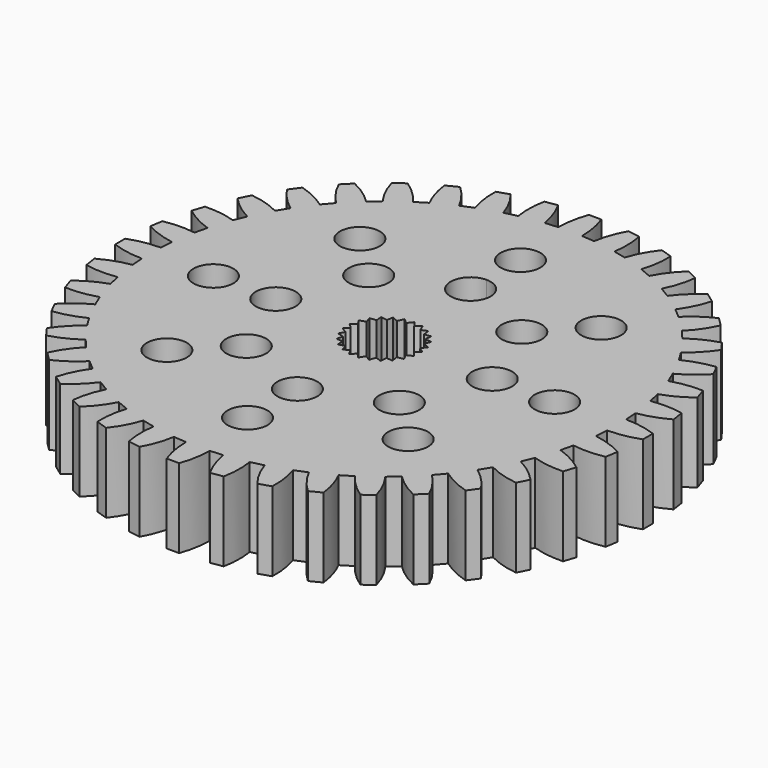
from build123d import *

# Parameters (mm, degrees)
F0_R     = 1.6
F1_DEPTH = 6.35


with BuildPart() as f1:
    # F0 (on Top) → F1 (new body)
    with BuildSketch(Plane.XY):
        with BuildLine():
            Line((0.5, 21.150821), (-0.5, 21.150821))
            ThreePointArc((-0.5, 21.150821), (-0.836603, 19.92091), (-0.95, 18.650821))
            Line((-0.95, 18.650821), (-1.979327, 18.569811))
            ThreePointArc((-1.979327, 18.569811), (-2.290014, 19.806524), (-2.814873, 20.968637))
            Line((-2.814873, 20.968637), (-3.802562, 20.812202))
            ThreePointArc((-3.802562, 20.812202), (-3.94262, 19.544777), (-3.855935, 18.272586))
            Line((-3.855935, 18.272586), (-4.859917, 18.031551))
            ThreePointArc((-4.859917, 18.031551), (-5.360243, 19.204436), (-6.060435, 20.270135))
            Line((-6.060435, 20.270135), (-7.011491, 19.961118))
            ThreePointArc((-7.011491, 19.961118), (-6.951557, 18.687386), (-6.666924, 17.444419))
            Line((-6.666924, 17.444419), (-7.620839, 17.049294))
            ThreePointArc((-7.620839, 17.049294), (-8.298485, 18.12947), (-9.156769, 19.072515))
            Line((-9.156769, 19.072515), (-10.047775, 18.618524))
            ThreePointArc((-10.047775, 18.618524), (-9.789323, 17.369851), (-9.313752, 16.186712))
            Line((-9.313752, 16.186712), (-10.194111, 15.647227))
            ThreePointArc((-10.194111, 15.647227), (-11.032391, 16.608097), (-12.027632, 17.405266))
            Line((-12.027632, 17.405266), (-12.836649, 16.817481))
            ThreePointArc((-12.836649, 16.817481), (-12.386043, 15.624611), (-11.731244, 14.530435))
            Line((-11.731244, 14.530435), (-12.516371, 13.859873))
            ThreePointArc((-12.516371, 13.859873), (-13.494642, 14.677778), (-14.602336, 15.309442))
            Line((-14.602336, 15.309442), (-15.309442, 14.602336))
            ThreePointArc((-15.309442, 14.602336), (-14.677778, 13.494642), (-13.859873, 12.516371))
            Line((-13.859873, 12.516371), (-14.530435, 11.731244))
            ThreePointArc((-14.530435, 11.731244), (-15.624611, 12.386043), (-16.817481, 12.836649))
            Line((-16.817481, 12.836649), (-17.405266, 12.027632))
            ThreePointArc((-17.405266, 12.027632), (-16.608097, 11.032391), (-15.647227, 10.194111))
            Line((-15.647227, 10.194111), (-16.186712, 9.313752))
            ThreePointArc((-16.186712, 9.313752), (-17.369851, 9.789323), (-18.618524, 10.047775))
            Line((-18.618524, 10.047775), (-19.072515, 9.156769))
            ThreePointArc((-19.072515, 9.156769), (-18.12947, 8.298485), (-17.049294, 7.620839))
            Line((-17.049294, 7.620839), (-17.444419, 6.666924))
            ThreePointArc((-17.444419, 6.666924), (-18.687386, 6.951557), (-19.961118, 7.011491))
            Line((-19.961118, 7.011491), (-20.270135, 6.060435))
            ThreePointArc((-20.270135, 6.060435), (-19.204436, 5.360243), (-18.031551, 4.859917))
            Line((-18.031551, 4.859917), (-18.272586, 3.855935))
            ThreePointArc((-18.272586, 3.855935), (-19.544777, 3.94262), (-20.812202, 3.802562))
            Line((-20.812202, 3.802562), (-20.968637, 2.814873))
            ThreePointArc((-20.968637, 2.814873), (-19.806524, 2.290014), (-18.569811, 1.979327))
            Line((-18.569811, 1.979327), (-18.650821, 0.95))
            ThreePointArc((-18.650821, 0.95), (-19.92091, 0.836603), (-21.150821, 0.5))
            Line((-21.150821, 0.5), (-21.150821, -0.5))
            ThreePointArc((-21.150821, -0.5), (-19.92091, -0.836603), (-18.650821, -0.95))
            Line((-18.650821, -0.95), (-18.569811, -1.979327))
            ThreePointArc((-18.569811, -1.979327), (-19.806524, -2.290014), (-20.968637, -2.814873))
            Line((-20.968637, -2.814873), (-20.812202, -3.802562))
            ThreePointArc((-20.812202, -3.802562), (-19.544777, -3.94262), (-18.272586, -3.855935))
            Line((-18.272586, -3.855935), (-18.031551, -4.859917))
            ThreePointArc((-18.031551, -4.859917), (-19.204436, -5.360243), (-20.270135, -6.060435))
            Line((-20.270135, -6.060435), (-19.961118, -7.011491))
            ThreePointArc((-19.961118, -7.011491), (-18.687386, -6.951557), (-17.444419, -6.666924))
            Line((-17.444419, -6.666924), (-17.049294, -7.620839))
            ThreePointArc((-17.049294, -7.620839), (-18.12947, -8.298485), (-19.072515, -9.156769))
            Line((-19.072515, -9.156769), (-18.618524, -10.047775))
            ThreePointArc((-18.618524, -10.047775), (-17.369851, -9.789323), (-16.186712, -9.313752))
            Line((-16.186712, -9.313752), (-15.647227, -10.194111))
            ThreePointArc((-15.647227, -10.194111), (-16.608097, -11.032391), (-17.405266, -12.027632))
            Line((-17.405266, -12.027632), (-16.817481, -12.836649))
            ThreePointArc((-16.817481, -12.836649), (-15.624611, -12.386043), (-14.530435, -11.731244))
            Line((-14.530435, -11.731244), (-13.859873, -12.516371))
            ThreePointArc((-13.859873, -12.516371), (-14.677778, -13.494642), (-15.309442, -14.602336))
            Line((-15.309442, -14.602336), (-14.602336, -15.309442))
            ThreePointArc((-14.602336, -15.309442), (-13.494642, -14.677778), (-12.516371, -13.859873))
            Line((-12.516371, -13.859873), (-11.731244, -14.530435))
            ThreePointArc((-11.731244, -14.530435), (-12.386043, -15.624611), (-12.836649, -16.817481))
            Line((-12.836649, -16.817481), (-12.027632, -17.405266))
            ThreePointArc((-12.027632, -17.405266), (-11.032391, -16.608097), (-10.194111, -15.647227))
            Line((-10.194111, -15.647227), (-9.313752, -16.186712))
            ThreePointArc((-9.313752, -16.186712), (-9.789323, -17.369851), (-10.047775, -18.618524))
            Line((-10.047775, -18.618524), (-9.156769, -19.072515))
            ThreePointArc((-9.156769, -19.072515), (-8.298485, -18.12947), (-7.620839, -17.049294))
            Line((-7.620839, -17.049294), (-6.666924, -17.444419))
            ThreePointArc((-6.666924, -17.444419), (-6.951557, -18.687386), (-7.011491, -19.961118))
            Line((-7.011491, -19.961118), (-6.060435, -20.270135))
            ThreePointArc((-6.060435, -20.270135), (-5.360243, -19.204436), (-4.859917, -18.031551))
            Line((-4.859917, -18.031551), (-3.855935, -18.272586))
            ThreePointArc((-3.855935, -18.272586), (-3.94262, -19.544777), (-3.802562, -20.812202))
            Line((-3.802562, -20.812202), (-2.814873, -20.968637))
            ThreePointArc((-2.814873, -20.968637), (-2.290014, -19.806524), (-1.979327, -18.569811))
            Line((-1.979327, -18.569811), (-0.95, -18.650821))
            ThreePointArc((-0.95, -18.650821), (-0.836603, -19.92091), (-0.5, -21.150821))
            Line((-0.5, -21.150821), (0.5, -21.150821))
            ThreePointArc((0.5, -21.150821), (0.836603, -19.92091), (0.95, -18.650821))
            Line((0.95, -18.650821), (1.979327, -18.569811))
            ThreePointArc((1.979327, -18.569811), (2.290014, -19.806524), (2.814873, -20.968637))
            Line((2.814873, -20.968637), (3.802562, -20.812202))
            ThreePointArc((3.802562, -20.812202), (3.94262, -19.544777), (3.855935, -18.272586))
            Line((3.855935, -18.272586), (4.859917, -18.031551))
            ThreePointArc((4.859917, -18.031551), (5.360243, -19.204436), (6.060435, -20.270135))
            Line((6.060435, -20.270135), (7.011491, -19.961118))
            ThreePointArc((7.011491, -19.961118), (6.951557, -18.687386), (6.666924, -17.444419))
            Line((6.666924, -17.444419), (7.620839, -17.049294))
            ThreePointArc((7.620839, -17.049294), (8.298485, -18.12947), (9.156769, -19.072515))
            Line((9.156769, -19.072515), (10.047775, -18.618524))
            ThreePointArc((10.047775, -18.618524), (9.789323, -17.369851), (9.313752, -16.186712))
            Line((9.313752, -16.186712), (10.194111, -15.647227))
            ThreePointArc((10.194111, -15.647227), (11.032391, -16.608097), (12.027632, -17.405266))
            Line((12.027632, -17.405266), (12.836649, -16.817481))
            ThreePointArc((12.836649, -16.817481), (12.386043, -15.624611), (11.731244, -14.530435))
            Line((11.731244, -14.530435), (12.516371, -13.859873))
            ThreePointArc((12.516371, -13.859873), (13.494642, -14.677778), (14.602336, -15.309442))
            Line((14.602336, -15.309442), (15.309442, -14.602336))
            ThreePointArc((15.309442, -14.602336), (14.677778, -13.494642), (13.859873, -12.516371))
            Line((13.859873, -12.516371), (14.530435, -11.731244))
            ThreePointArc((14.530435, -11.731244), (15.624611, -12.386043), (16.817481, -12.836649))
            Line((16.817481, -12.836649), (17.405266, -12.027632))
            ThreePointArc((17.405266, -12.027632), (16.608097, -11.032391), (15.647227, -10.194111))
            Line((15.647227, -10.194111), (16.186712, -9.313752))
            ThreePointArc((16.186712, -9.313752), (17.369851, -9.789323), (18.618524, -10.047775))
            Line((18.618524, -10.047775), (19.072515, -9.156769))
            ThreePointArc((19.072515, -9.156769), (18.12947, -8.298485), (17.049294, -7.620839))
            Line((17.049294, -7.620839), (17.444419, -6.666924))
            ThreePointArc((17.444419, -6.666924), (18.687386, -6.951557), (19.961118, -7.011491))
            Line((19.961118, -7.011491), (20.270135, -6.060435))
            ThreePointArc((20.270135, -6.060435), (19.204436, -5.360243), (18.031551, -4.859917))
            Line((18.031551, -4.859917), (18.272586, -3.855935))
            ThreePointArc((18.272586, -3.855935), (19.544777, -3.94262), (20.812202, -3.802562))
            Line((20.812202, -3.802562), (20.968637, -2.814873))
            ThreePointArc((20.968637, -2.814873), (19.806524, -2.290014), (18.569811, -1.979327))
            Line((18.569811, -1.979327), (18.650821, -0.95))
            ThreePointArc((18.650821, -0.95), (19.92091, -0.836603), (21.150821, -0.5))
            Line((21.150821, -0.5), (21.150821, 0.5))
            ThreePointArc((21.150821, 0.5), (19.92091, 0.836603), (18.650821, 0.95))
            Line((18.650821, 0.95), (18.569811, 1.979327))
            ThreePointArc((18.569811, 1.979327), (19.806524, 2.290014), (20.968637, 2.814873))
            Line((20.968637, 2.814873), (20.812202, 3.802562))
            ThreePointArc((20.812202, 3.802562), (19.544777, 3.94262), (18.272586, 3.855935))
            Line((18.272586, 3.855935), (18.031551, 4.859917))
            ThreePointArc((18.031551, 4.859917), (19.204436, 5.360243), (20.270135, 6.060435))
            Line((20.270135, 6.060435), (19.961118, 7.011491))
            ThreePointArc((19.961118, 7.011491), (18.687386, 6.951557), (17.444419, 6.666924))
            Line((17.444419, 6.666924), (17.049294, 7.620839))
            ThreePointArc((17.049294, 7.620839), (18.12947, 8.298485), (19.072515, 9.156769))
            Line((19.072515, 9.156769), (18.618524, 10.047775))
            ThreePointArc((18.618524, 10.047775), (17.369851, 9.789323), (16.186712, 9.313752))
            Line((16.186712, 9.313752), (15.647227, 10.194111))
            ThreePointArc((15.647227, 10.194111), (16.608097, 11.032391), (17.405266, 12.027632))
            Line((17.405266, 12.027632), (16.817481, 12.836649))
            ThreePointArc((16.817481, 12.836649), (15.624611, 12.386043), (14.530435, 11.731244))
            Line((14.530435, 11.731244), (13.859873, 12.516371))
            ThreePointArc((13.859873, 12.516371), (14.677778, 13.494642), (15.309442, 14.602336))
            Line((15.309442, 14.602336), (14.602336, 15.309442))
            ThreePointArc((14.602336, 15.309442), (13.494642, 14.677778), (12.516371, 13.859873))
            Line((12.516371, 13.859873), (11.731244, 14.530435))
            ThreePointArc((11.731244, 14.530435), (12.386043, 15.624611), (12.836649, 16.817481))
            Line((12.836649, 16.817481), (12.027632, 17.405266))
            ThreePointArc((12.027632, 17.405266), (11.032391, 16.608097), (10.194111, 15.647227))
            Line((10.194111, 15.647227), (9.313752, 16.186712))
            ThreePointArc((9.313752, 16.186712), (9.789323, 17.369851), (10.047775, 18.618524))
            Line((10.047775, 18.618524), (9.156769, 19.072515))
            ThreePointArc((9.156769, 19.072515), (8.298485, 18.12947), (7.620839, 17.049294))
            Line((7.620839, 17.049294), (6.666924, 17.444419))
            ThreePointArc((6.666924, 17.444419), (6.951557, 18.687386), (7.011491, 19.961118))
            Line((7.011491, 19.961118), (6.060435, 20.270135))
            ThreePointArc((6.060435, 20.270135), (5.360243, 19.204436), (4.859917, 18.031551))
            Line((4.859917, 18.031551), (3.855935, 18.272586))
            ThreePointArc((3.855935, 18.272586), (3.94262, 19.544777), (3.802562, 20.812202))
            Line((3.802562, 20.812202), (2.814873, 20.968637))
            ThreePointArc((2.814873, 20.968637), (2.290014, 19.806524), (1.979327, 18.569811))
            Line((1.979327, 18.569811), (0.95, 18.650821))
            ThreePointArc((0.95, 18.650821), (0.836603, 19.92091), (0.5, 21.150821))
        make_face()
        with Locations((-9.669685, -9.669685)):
            Circle(F0_R, mode=Mode.SUBTRACT)
        with Locations((-6.134151, -6.134151)):
            Circle(F0_R, mode=Mode.SUBTRACT)
        with Locations((0, -13.675)):
            Circle(F0_R, mode=Mode.SUBTRACT)
        with Locations((0, -8.675)):
            Circle(F0_R, mode=Mode.SUBTRACT)
        with Locations((9.669685, -9.669685)):
            Circle(F0_R, mode=Mode.SUBTRACT)
        with Locations((6.134151, -6.134151)):
            Circle(F0_R, mode=Mode.SUBTRACT)
        with Locations((-13.675, 0)):
            Circle(F0_R, mode=Mode.SUBTRACT)
        with Locations((-8.675, 0)):
            Circle(F0_R, mode=Mode.SUBTRACT)
        with Locations((-6.134151, 6.134151)):
            Circle(F0_R, mode=Mode.SUBTRACT)
        with Locations((-9.669685, 9.669685)):
            Circle(F0_R, mode=Mode.SUBTRACT)
        Polygon((-2.313127, 1.150841), (-2.481189, 1.651718), (-1.954254, 1.689937), (-1.992473, 2.216873), (-1.472587, 2.122848), (-1.378562, 2.642733), (-0.898392, 2.422372), (-0.678031, 2.902541), (-0.267748, 2.56969), (0.065104, 2.979972), (0.37972, 2.555544), (0.804147, 2.87016), (1.003328, 2.380825), (1.492663, 2.580005), (1.563894, 2.056509), (2.08739, 2.12774), (2.026194, 1.602976), (2.550958, 1.54178), (2.361181, 1.048721), (2.85424, 0.858945), (2.547807, 0.428572), (2.97818, 0.122139), (2.574344, -0.218506), (2.914989, -0.622342), (2.439126, -0.851855), (2.668639, -1.327718), (2.150649, -1.431678), (2.254609, -1.949669), (1.727038, -1.921544), (1.698914, -2.449115), (1.194912, -2.290672), (1.036469, -2.794674), (0.587704, -2.515869), (0.308899, -2.964634), (-0.056431, -2.582985), (-0.43808, -2.948314), (-0.69702, -2.487802), (-1.157533, -2.746742), (-1.293813, -2.236301), (-1.804254, -2.372581), (-1.809311, -1.844285), (-2.337607, -1.849342), (-2.211123, -1.336386), (-2.724079, -1.209903), (-2.474002, -0.744517), (-2.939388, -0.494441), (-2.581431, -0.105868), (-2.970004, 0.252089), (-2.526659, 0.539434), (-2.814004, 0.982779), align=None, mode=Mode.SUBTRACT)
        with Locations((8.675, 0)):
            Circle(F0_R, mode=Mode.SUBTRACT)
        with BuildLine():
            ThreePointArc((1.6, 8.675), (-1.131371, 7.543629), (0, 10.275))
            ThreePointArc((0, 10.275), (1.131371, 9.806371), (1.6, 8.675))
        make_face(mode=Mode.SUBTRACT)
        with Locations((6.134151, 6.134151)):
            Circle(F0_R, mode=Mode.SUBTRACT)
        with Locations((9.669685, 9.669685)):
            Circle(F0_R, mode=Mode.SUBTRACT)
        with Locations((13.675, 0)):
            Circle(F0_R, mode=Mode.SUBTRACT)
        with BuildLine():
            ThreePointArc((0, 12.075), (-1.131371, 14.806371), (1.6, 13.675))
            ThreePointArc((1.6, 13.675), (1.131371, 12.543629), (0, 12.075))
        make_face(mode=Mode.SUBTRACT)
    extrude(amount=F1_DEPTH)


solid = f1.part
